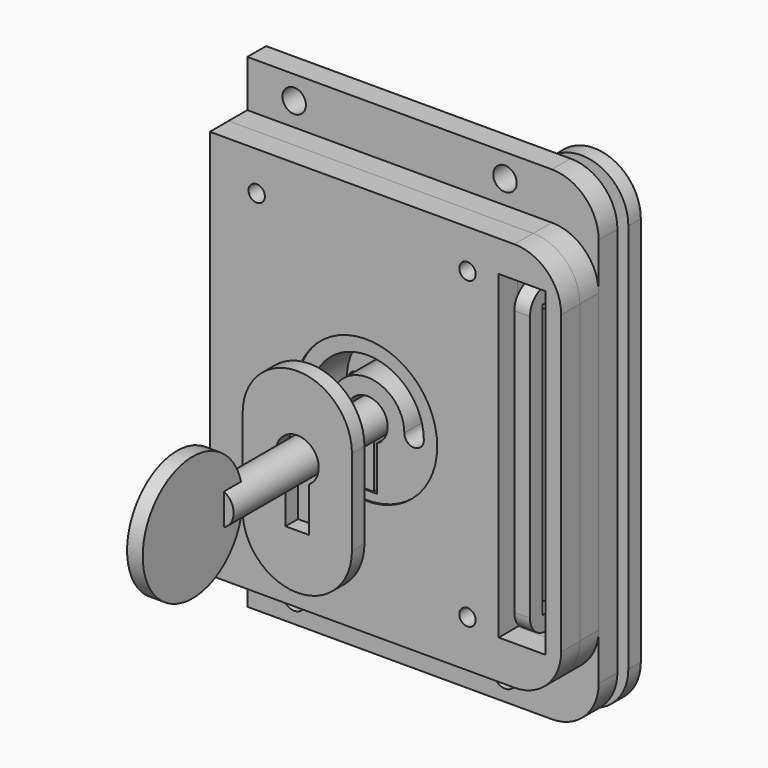
from build123d import *

# Parameters (mm, degrees)
EXTRUDE012_DEPTH           = 3
EXTRUDE014_DEPTH           = 2.8
EXTRUDE014_PLACEMENT_ANGLE = 180
SKETCH003_R                = 1.05
EXTRUDE015_DEPTH           = 3
SKETCH020_R                = 9.125
SKETCH020_R_2              = 1.05
SKETCH020_W                = 6
SKETCH020_H                = 41
EXTRUDE016_DEPTH           = 3
SKETCH022_R                = 1.05
SKETCH022_R_2              = 1.5
SKETCH022_W                = 6
SKETCH022_H                = 41
EXTRUDE017_DEPTH           = 3
SKETCH_R                   = 9.25
EXTRUDE013_DEPTH           = 3
SKETCH001_R                = 13.25
EXTRUDE_DEPTH              = 2.8
SKETCH028_W                = 5
SKETCH028_H                = 35
EXTRUDE022_DEPTH           = 1
SKETCH029_R                = 1.5
EXTRUDE023_DEPTH           = 2
EXTRUDE024_DEPTH           = 2
CYLINDER001_R              = 8
CYLINDER001_DEPTH          = 2
BOX_W                      = 2
BOX_H                      = 6
BOX_DEPTH                  = 8.75
CYLINDER_R                 = 2.25
CYLINDER_DEPTH             = 30


with BuildPart() as slider:
    # Sketch002 → Extrude012 (new body)
    with BuildSketch(Plane.XZ):
        with BuildLine():
            Line((-10.625, 18), (21.625, 18))
            ThreePointArc((22.875, 16.75), (22.508883, 17.633883), (21.625, 18))
            Line((22.875, 16.75), (22.875, -13.75))
            ThreePointArc((21.625, -15), (22.508883, -14.633883), (22.875, -13.75))
            Line((7, -15), (21.625, -15))
            ThreePointArc((7, -15), (6, -14.219224), (5, -15))
            Line((3, -15), (5, -15))
            Line((1, -15), (3, -15))
            ThreePointArc((1, -15), (0, -14.219224), (-1, -15))
            Line((-10.625, -15), (-1, -15))
            ThreePointArc((-11.875, -13.75), (-11.508883, -14.633883), (-10.625, -15))
            Line((-11.875, -13.75), (-11.875, 16.75))
            ThreePointArc((-10.625, 18), (-11.508883, 17.633883), (-11.875, 16.75))
        make_face()
        with BuildLine():
            ThreePointArc((16.125, 3), (3, 16.125), (-10.125, 3))
            Line((-10.125, 0), (-10.125, 3))
            ThreePointArc((-10.125, 0), (3, -13.125), (16.125, 0))
            Line((16.125, 0), (16.125, 3))
        make_face(mode=Mode.SUBTRACT)
    extrude(amount=EXTRUDE012_DEPTH)


with BuildPart() as spring:
    # Sketch018 → Extrude014 (new body)
    with BuildSketch(Plane.XZ):
        with BuildLine():
            Line((-0.9, -5), (-0.9, -7.125))
            ThreePointArc((-0.9, -7.125), (0, -8.025), (0.9, -7.125))
            Line((0.9, -5), (0.9, -7.125))
            ThreePointArc((0.9, -5), (5.545494, -3.4647), (9, 0))
            Line((7.5, 0), (9, 0))
            ThreePointArc((-7.5, 0), (0, -3.792786), (7.5, 0))
            Line((-9, 0), (-7.5, 0))
            ThreePointArc((-9, 0), (-5.545494, -3.4647), (-0.9, -5))
        make_face()
    extrude(amount=EXTRUDE014_DEPTH)


with BuildPart() as spring_1:
    # Extrude014 placement: moved
    add(spring.part.moved(Location((0, 0, -22))).rotate(Axis((0, 0, -22), (0, 1, 0)), EXTRUDE014_PLACEMENT_ANGLE))


with BuildPart() as spacer:
    # Sketch003 → Extrude015 (new body)
    with BuildSketch(Plane.XZ):
        with BuildLine():
            Line((-20, 26), (19, 26))
            ThreePointArc((25, 20), (23.242641, 24.242641), (19, 26))
            Line((25, 20), (25, -18))
            ThreePointArc((19, -24), (23.242641, -22.242641), (25, -18))
            Line((19, -24), (-20, -24))
            Line((-20, -24), (-20, 26))
        make_face()
        with Locations((-14, 21)):
            Circle(SKETCH003_R, mode=Mode.SUBTRACT)
        with Locations((13, 21)):
            Circle(SKETCH003_R, mode=Mode.SUBTRACT)
        with Locations((-14, -18)):
            Circle(SKETCH003_R, mode=Mode.SUBTRACT)
        with Locations((13, -18)):
            Circle(SKETCH003_R, mode=Mode.SUBTRACT)
        with BuildLine():
            Line((17, 18), (-18, 18))
            Line((-18, -15), (-18, 18))
            Line((-18, -15), (-1.5, -15))
            ThreePointArc((-1, -15.5), (-1.146447, -15.146447), (-1.5, -15))
            Line((-1, -15.5), (-1, -17))
            Line((-1, -17), (-10, -17))
            Line((-10, -17), (-10, -22))
            Line((-10, -22), (10, -22))
            Line((10, -22), (10, -17))
            Line((10, -17), (1, -17))
            Line((1, -15.5), (1, -17))
            ThreePointArc((1.5, -15), (1.146447, -15.146447), (1, -15.5))
            Line((1.5, -15), (17, -15))
            Line((17, -15), (17, -19))
            Line((23, -19), (17, -19))
            Line((23, 22), (23, -19))
            Line((17, 22), (23, 22))
            Line((17, 18), (17, 22))
        make_face(mode=Mode.SUBTRACT)
    extrude(amount=EXTRUDE015_DEPTH)


with BuildPart() as frontplate:
    # Sketch020 → Extrude016 (new body)
    with BuildSketch(Plane.XZ):
        with BuildLine():
            Line((-20, 26), (19, 26))
            ThreePointArc((25, 20), (23.242641, 24.242641), (19, 26))
            Line((25, 20), (25, -18))
            ThreePointArc((19, -24), (23.242641, -22.242641), (25, -18))
            Line((19, -24), (-20, -24))
            Line((-20, -24), (-20, 26))
        make_face()
        Circle(SKETCH020_R, mode=Mode.SUBTRACT)
        with Locations((-14, 21)):
            Circle(SKETCH020_R_2, mode=Mode.SUBTRACT)
        with Locations((13, 21)):
            Circle(SKETCH020_R_2, mode=Mode.SUBTRACT)
        with Locations((-14, -18)):
            Circle(SKETCH020_R_2, mode=Mode.SUBTRACT)
        with Locations((13, -18)):
            Circle(SKETCH020_R_2, mode=Mode.SUBTRACT)
        with Locations((20, 1.5)):
            Rectangle(SKETCH020_W, SKETCH020_H, mode=Mode.SUBTRACT)
    extrude(amount=EXTRUDE016_DEPTH)


with BuildPart() as frontplate_1:
    # Extrude016 placement: moved
    add(frontplate.part.moved(Location((0, -3, 0))))


with BuildPart() as backplate:
    # Sketch022 → Extrude017 (new body)
    with BuildSketch(Plane.XZ):
        with BuildLine():
            Line((-20, 32), (19, 32))
            ThreePointArc((25, 26), (23.242641, 30.242641), (19, 32))
            Line((25, 26), (25, -24))
            ThreePointArc((19, -30), (23.242641, -28.242641), (25, -24))
            Line((19, -30), (-20, -30))
            Line((-20, -30), (-20, 32))
        make_face()
        with Locations((-6, 0)):
            Circle(SKETCH022_R, mode=Mode.SUBTRACT)
        with Locations((-14, 21)):
            Circle(SKETCH022_R, mode=Mode.SUBTRACT)
        with Locations((13, 21)):
            Circle(SKETCH022_R, mode=Mode.SUBTRACT)
        with Locations((-14, -18)):
            Circle(SKETCH022_R, mode=Mode.SUBTRACT)
        with Locations((13, -18)):
            Circle(SKETCH022_R, mode=Mode.SUBTRACT)
        with Locations((-14, 29)):
            Circle(SKETCH022_R_2, mode=Mode.SUBTRACT)
        with Locations((13, 29)):
            Circle(SKETCH022_R_2, mode=Mode.SUBTRACT)
        with Locations((-14, -27)):
            Circle(SKETCH022_R_2, mode=Mode.SUBTRACT)
        with Locations((13, -27)):
            Circle(SKETCH022_R_2, mode=Mode.SUBTRACT)
        with Locations((20, 1.5)):
            Rectangle(SKETCH022_W, SKETCH022_H, mode=Mode.SUBTRACT)
    extrude(amount=EXTRUDE017_DEPTH)


with BuildPart() as backplate_1:
    # Extrude017 placement: moved
    add(backplate.part.moved(Location((0, 3, 0))))


with BuildPart() as toppart:
    # Sketch → Extrude013 (new body)
    with BuildSketch(Plane.XZ):
        Circle(SKETCH_R)
        with BuildLine():
            ThreePointArc((1.25, -2.308273), (0, 2.625), (-1.25, -2.308273))
            Line((-1.25, -2.308273), (-1.25, -8))
            Line((-1.25, -8), (1.25, -8))
            Line((1.25, -8), (1.25, -2.308273))
        make_face(mode=Mode.SUBTRACT)
        with BuildLine():
            ThreePointArc((-7.25, 0), (-6, -1.25), (-4.75, 0))
            ThreePointArc((4.75, 0), (0, 4.75), (-4.75, 0))
            ThreePointArc((4.75, 0), (6, -1.25), (7.25, 0))
            ThreePointArc((7.25, 0), (0, 7.25), (-7.25, 0))
        make_face(mode=Mode.SUBTRACT)
    extrude(amount=EXTRUDE013_DEPTH)


with BuildPart() as toppart_1:
    # Extrude013 placement: moved
    add(toppart.part.moved(Location((0, -2.8, 0))))


with BuildPart() as keyhole:
    # Sketch001 → Extrude (new body)
    with BuildSketch(Plane.XZ):
        with Locations((3, 0)):
            Circle(SKETCH001_R)
        with BuildLine():
            ThreePointArc((1.25, -2.308273), (0, 2.625), (-1.25, -2.308273))
            Line((-1.25, -2.308273), (-1.25, -8))
            Line((-1.25, -8), (1.25, -8))
            Line((1.25, -8), (1.25, -2.308273))
        make_face(mode=Mode.SUBTRACT)
        with BuildLine():
            ThreePointArc((-7.25, 0), (-6, -1.25), (-4.75, 0))
            ThreePointArc((4.75, 0), (0, 4.75), (-4.75, 0))
            ThreePointArc((4.75, 0), (6, -1.25), (7.25, 0))
            ThreePointArc((7.25, 0), (0, 7.25), (-7.25, 0))
        make_face(mode=Mode.SUBTRACT)
    extrude(amount=EXTRUDE_DEPTH)

    # Fusion: union TopPart
    add(toppart_1.part)


with BuildPart() as doorlockslotplate:
    # Sketch028 → Extrude022 (new body, symmetric)
    with BuildSketch(Plane.YZ.offset(20)):
        with BuildLine():
            Line((-3.5, 21), (3.5, 21))
            Line((3.5, 15), (3.5, 21))
            Line((5.5, 15), (3.5, 15))
            Line((5.5, -12), (5.5, 15))
            Line((3.5, -12), (5.5, -12))
            Line((3.5, -18), (3.5, -12))
            Line((-3.5, -18), (3.5, -18))
            ThreePointArc((-6, -15.5), (-5.267767, -17.267767), (-3.5, -18))
            Line((-6, -15.5), (-6, 18.5))
            ThreePointArc((-3.5, 21), (-5.267767, 20.267767), (-6, 18.5))
        make_face()
        with Locations((-1.5, 1.5)):
            Rectangle(SKETCH028_W, SKETCH028_H, mode=Mode.SUBTRACT)
    extrude(amount=EXTRUDE022_DEPTH, both=True)


with BuildPart() as doorlockmountplate:
    # Sketch029 → Extrude023 (new body)
    with BuildSketch(Plane(origin=(0, 0, 0), x_dir=(-1, 0, 0), z_dir=(0, 1, 0))):
        with BuildLine():
            Line((6, 26.5), (6, -23.5))
            ThreePointArc((-6, -23.5), (0, -29.5), (6, -23.5))
            Line((-6, -23.5), (-6, 26.5))
            ThreePointArc((6, 26.5), (0, 32.5), (-6, 26.5))
        make_face()
        with Locations((0, -23.5)):
            Circle(SKETCH029_R, mode=Mode.SUBTRACT)
        with Locations((0, 26.5)):
            Circle(SKETCH029_R, mode=Mode.SUBTRACT)
        Polygon((1, 16.5), (1, -13.5), (0, -13.5), (-1, -13.5), (-1, 16.5), (0, 16.5), align=None, mode=Mode.SUBTRACT)
    extrude(amount=EXTRUDE023_DEPTH)


with BuildPart() as doorlockmountplate_1:
    # Extrude023 placement: moved
    add(doorlockmountplate.part.moved(Location((20, 3.5, 0))))


with BuildPart() as keyholeinsert:
    # Sketch030 → Extrude024 (new body)
    with BuildSketch(Plane.XZ):
        with BuildLine():
            ThreePointArc((7, 3), (0, 10), (-7, 3))
            Line((-7, 3), (-7, -8))
            ThreePointArc((-7, -8), (0, -15), (7, -8))
            Line((7, -8), (7, 3))
        make_face()
        with BuildLine():
            ThreePointArc((1.5, -2.304886), (0, 2.75), (-1.5, -2.304886))
            Line((-1.5, -2.304886), (-1.5, -8))
            Line((-1.5, -8), (1.5, -8))
            Line((1.5, -8), (1.5, -2.304886))
        make_face(mode=Mode.SUBTRACT)
    extrude(amount=EXTRUDE024_DEPTH)


with BuildPart() as keyholeinsert_1:
    # Extrude024 placement: moved
    add(keyholeinsert.part.moved(Location((0, -15, 0))))


with BuildPart() as bow:
    # Cylinder001 → Cylinder001 (new body)
    with BuildSketch(Plane(origin=(-1, -35, 0), x_dir=(0, 0, -1), z_dir=(1, 0, 0))):
        Circle(CYLINDER001_R)
    extrude(amount=CYLINDER001_DEPTH)


with BuildPart() as bit:
    # Box → Box (new body)
    with BuildSketch(Plane(origin=(-1, -6, -7.75), x_dir=(1, 0, 0), z_dir=(0, 0, 1))):
        with Locations((1, 3)):
            Rectangle(BOX_W, BOX_H)
    extrude(amount=BOX_DEPTH)


with BuildPart() as key:
    # Cylinder → Cylinder (new body)
    with BuildSketch(Plane.XZ):
        Circle(CYLINDER_R)
    extrude(amount=CYLINDER_DEPTH)

    # Fusion001: union Bow, Bit
    add(bow.part)
    add(bit.part)


solid = Compound([slider.part, spring_1.part, spacer.part, frontplate_1.part, backplate_1.part, keyhole.part, doorlockslotplate.part, doorlockmountplate_1.part, keyholeinsert_1.part, key.part])
